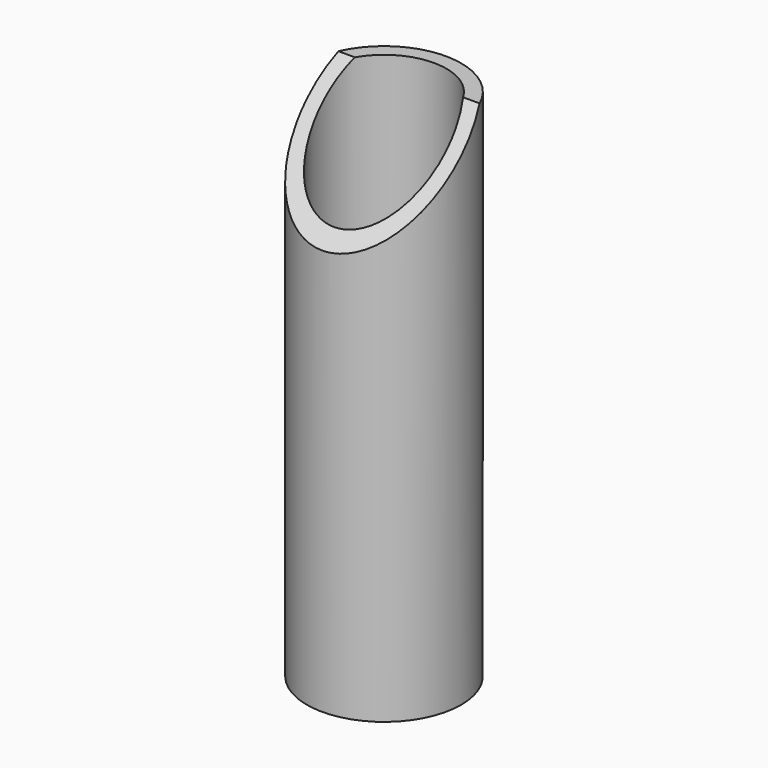
from build123d import *

# Parameters (mm, degrees)
F0_R     = 21
F0_R_2   = 17
F1_DEPTH = 70
F3_DEPTH = 21


with BuildPart() as f1:
    # F0 (on Top) → F1 (new body, symmetric)
    with BuildSketch(Plane.XY):
        Circle(F0_R)
        Circle(F0_R_2, mode=Mode.SUBTRACT)
    extrude(amount=F1_DEPTH, both=True)

    # F2 (on Right) → F3 (cut, symmetric)
    with BuildSketch(Plane.YZ):
        Polygon((-21, 40.5), (8.5, 70), (21, 70), (21, 80), (-21, 80), align=None)
    extrude(amount=F3_DEPTH, both=True, mode=Mode.SUBTRACT)


solid = f1.part
